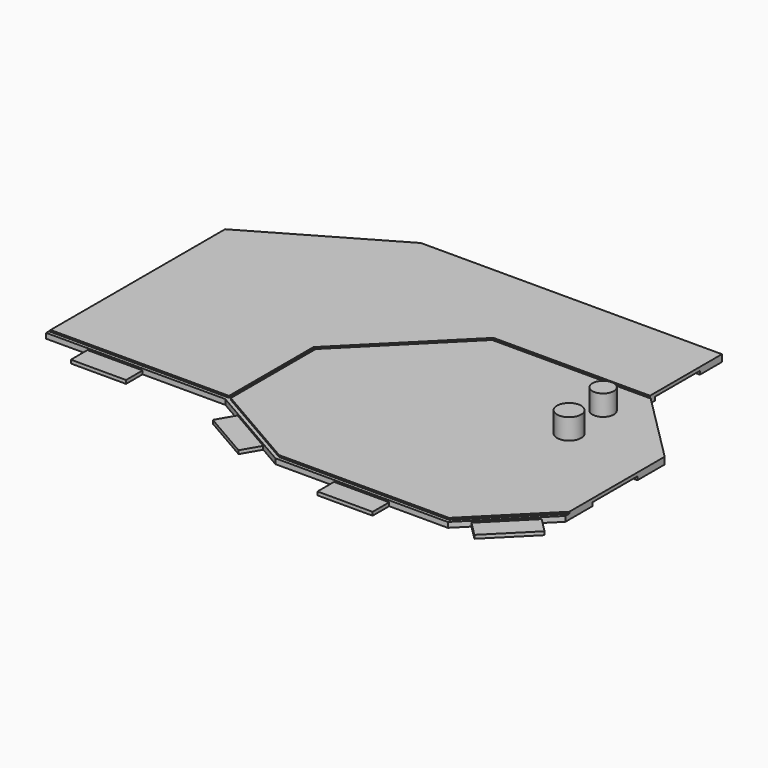
from build123d import *

# Parameters (mm, degrees)
PAD027_DEPTH    = 1
SKETCH043_W     = 3.05
SKETCH043_H     = 8.1
SKETCH043_W_2   = 8.1
SKETCH043_H_2   = 3.05
POCKET016_DEPTH = 0.5
POCKET017_DEPTH = 0.25
POCKET018_DEPTH = 0.25
CHAMFER007_SIZE = 0.25
SKETCH046_W     = 8
SKETCH046_H     = 3
PAD028_DEPTH    = 0.5
SKETCH047_R     = 1.55
SKETCH047_R_2   = 1.75
PAD029_DEPTH    = 3


with BuildPart() as part:
    # Sketch042 (on Face1 of Binder013) → Pad027 (new body)
    with BuildSketch(Plane(origin=(0, 0, -13), x_dir=(1, 0, 0), z_dir=(0, 0, -1))):
        Polygon((13, -5.333333), (13, -23.333333), (2.352991501, -33.980341499), (2.352991501, -47.019624501), (-41.313708499, -47.019624501), (-61, -35.6537388036), (-61, -3.6537388036), (-35, -3.6537388036), (-21.4834043405, 4.1500713405), (3.5165956595, 4.1500713405), align=None)
    extrude(amount=-PAD027_DEPTH)

    # Sketch043 (on Face11 of Pad027) → Pocket016 (cut)
    with BuildSketch(Plane(origin=(0, 0, -13), x_dir=(1, 0, 0), z_dir=(0, 0, -1))):
        with Locations((11.475, -14.333333)):
            Rectangle(SKETCH043_W, SKETCH043_H)
        with Locations((0.827991501, -38.979624501)):
            Rectangle(SKETCH043_W, SKETCH043_H)
        with Locations((-5.322008499, -45.494624501)):
            Rectangle(SKETCH043_W_2, SKETCH043_H_2)
        with Locations((-27.713708499, -45.494624501)):
            Rectangle(SKETCH043_W_2, SKETCH043_H_2)
        Polygon((-54.5481107418, -39.3787388036), (-47.5333049711, -43.4287388036), (-46.0083049711, -40.787361322), (-53.0231107418, -36.737361322), align=None)
        Polygon((10.5200748237, -25.8132581763), (4.7925098961, -31.5408231039), (2.6358342135, -29.3841474213), (8.3633991411, -23.6565824937), align=None)
    extrude(amount=-POCKET016_DEPTH, mode=Mode.SUBTRACT)

    # Sketch044 (on Face7 of Pocket016) → Pocket017 (cut)
    with BuildSketch(Plane.XY.offset(-12)):
        Polygon((13, 5.333333), (3.5165956595, -4.1500713405), (-21.4834043405, -4.1500713405), (-35, 3.6537388036), (-61, 3.6537388036), (-61, 4.1537388036), (-34.8660254038, 4.1537388036), (-21.3494297442, -3.6500713405), (3.3094888783, -3.6500713405), (13, 6.0404397812), align=None)
    extrude(amount=-POCKET017_DEPTH, mode=Mode.SUBTRACT)

    # Sketch045 (on Face7 of Pocket017) → Pocket018 (cut)
    with BuildSketch(Plane.XY.offset(-12)):
        Polygon((2.352991501, 33.980341499), (-20.3541152802, 33.980341499), (-34.8660254038, 19.4684313754), (-34.8660254038, 4.1537388036), (-34.3660254038, 3.8650636689), (-34.3660254038, 19.2613245942), (-20.147008499, 33.480341499), (2.852991501, 33.480341499), align=None)
    extrude(amount=-POCKET018_DEPTH, mode=Mode.SUBTRACT)

    # Chamfer007
    chamfer007_edges = [part.edges().sort_by_distance(p)[0] for p in [
        (-61, 19.903739, -12),
    ]]
    chamfer(chamfer007_edges, length=CHAMFER007_SIZE)

    # Sketch046 (on Face4 of Chamfer007) → Pad028 (join)
    with BuildSketch(Plane(origin=(0, 0, -13), x_dir=(1, 0, 0), z_dir=(0, 0, -1))):
        with Locations((-51, -2.1537388036)):
            Rectangle(SKETCH046_W, SKETCH046_H)
        with Locations((-8.9834043405, 5.6500713405)):
            Rectangle(SKETCH046_W, SKETCH046_H)
        Polygon((-24.7809002358, 2.2462611973), (-31.7091034658, -1.7537388033), (-33.209103466, 0.8443374079), (-26.2809002361, 4.8443374085), align=None)
        Polygon((11.0826382182, -3.4159712182), (5.4257839687, 2.2408830313), (7.5471043123, 4.3622033748), (13.2039585618, -1.2946508747), align=None)
    extrude(amount=-PAD028_DEPTH)

    # Sketch047 (on Face63 of Pad028) → Pad029 (join)
    with BuildSketch(Plane.XY.offset(-12)):
        with Locations((0.5, 27.793333)):
            Circle(SKETCH047_R)
        with Locations((1, 20.993333)):
            Circle(SKETCH047_R_2)
    extrude(amount=PAD029_DEPTH)


solid = part.part
